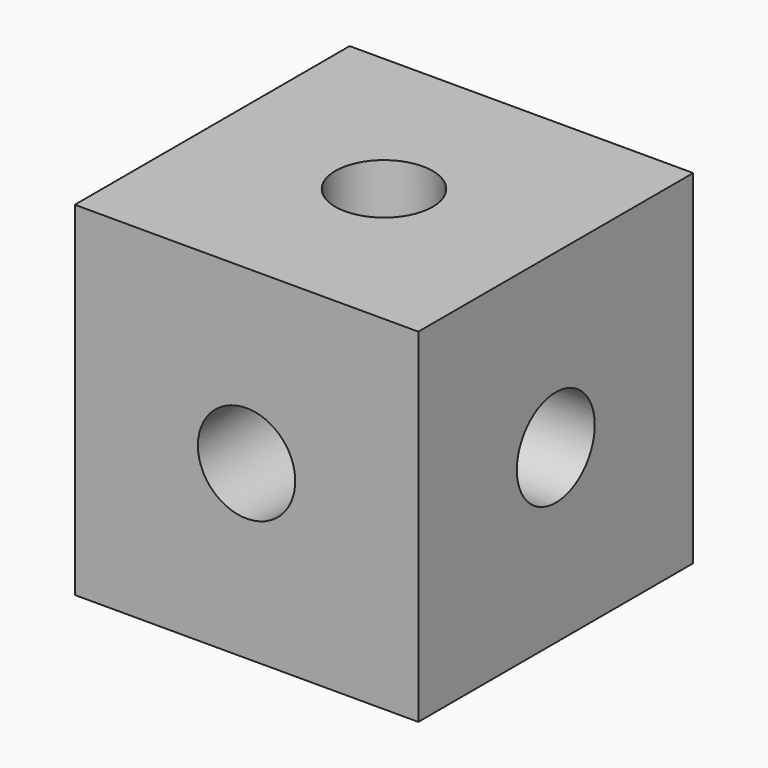
from build123d import *

# Parameters (mm, degrees)
F0_W     = 12
F0_H     = 12
F0_R     = 1.7
F1_DEPTH = 12
F2_R     = 1.7
F3_DEPTH = 12
F4_R     = 1.7
F5_DEPTH = 12


with BuildPart() as f1:
    # F0 (on Top) → F1 (new body)
    with BuildSketch(Plane.XY):
        Rectangle(F0_W, F0_H)
        Circle(F0_R, mode=Mode.SUBTRACT)
    extrude(amount=F1_DEPTH)

    # F2 (on face) → F3 (cut)
    with BuildSketch(Plane(origin=(-6, 0, 0), x_dir=(0, -1, 0), z_dir=(-1, 0, 0))):
        with Locations((0, 6)):
            Circle(F2_R)
    extrude(amount=-F3_DEPTH, mode=Mode.SUBTRACT)

    # F4 (on face) → F5 (cut)
    with BuildSketch(Plane(origin=(0, 6, 0), x_dir=(-1, 0, 0), z_dir=(0, 1, 0))):
        with Locations((0, 6)):
            Circle(F4_R)
    extrude(amount=-F5_DEPTH, mode=Mode.SUBTRACT)


solid = f1.part
